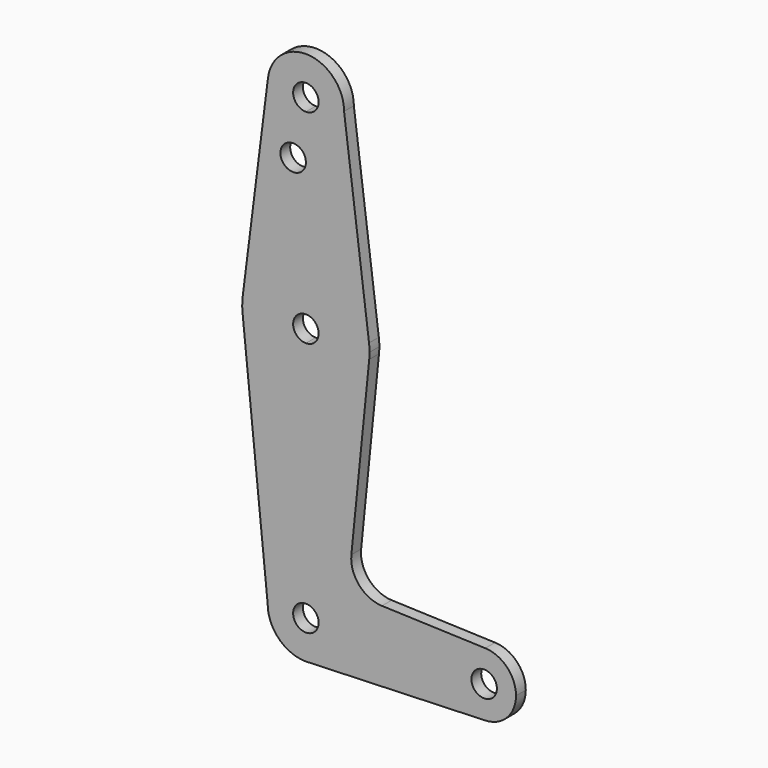
from build123d import *

# Parameters (mm, degrees)
F0_R     = 3.175
F1_DEPTH = 3.048


with BuildPart() as f1:
    # F0 (on Front) → F1 (new body)
    with BuildSketch(Plane.XZ):
        with BuildLine():
            ThreePointArc((-15.7942028036, 61.9003804205), (-10.644756084, 51.722700101), (0, 47.625))
            Line((0, 47.625), (0, 60.325))
            ThreePointArc((0, 60.325), (-3.175, 63.5), (0, 66.675))
            Line((0, 66.675), (0, 79.375))
            ThreePointArc((0, 79.375), (-10.5003255158, 75.40625), (-15.7504882737, 65.484375))
            ThreePointArc((-15.7504882737, 65.484375), (-15.8738192656, 63.6936154008), (-15.7942028036, 61.9003804205))
        make_face()
        with BuildLine():
            Line((-9.4502929642, 115.490625), (-15.7504882737, 65.484375))
            ThreePointArc((-15.7504882737, 65.484375), (-10.5003255158, 75.40625), (0, 79.375))
            Line((0, 79.375), (0, 100.0252))
            Line((0, 100.0252), (0, 104.775))
            ThreePointArc((0, 104.775), (-7.14375, 107.9998046905), (-9.4502929642, 115.490625))
        make_face()
        with Locations((-3.175, 100.0252)):
            Circle(F0_R, mode=Mode.SUBTRACT)
        with BuildLine():
            Line((36.5125, 0), (9.525, 0))
            ThreePointArc((9.525, 0), (6.9705567315, -6.4912990883), (0.6773435479, -9.500885786))
            Line((0.6773435479, -9.500885786), (44.7324052746, -7.9324746146))
            ThreePointArc((44.7324052746, -7.9324746146), (38.9380895153, -5.7116327839), (36.5125, 0))
        make_face()
        with BuildLine():
            ThreePointArc((44.7324052746, 7.9324746146), (38.9380895153, 5.7116327839), (36.5125, 0))
            ThreePointArc((36.5125, 0), (38.9380895153, -5.7116327839), (44.7324052746, -7.9324746146))
            ThreePointArc((44.7324052746, -7.9324746146), (50.1616327839, -5.5119104847), (52.3875, 0))
            ThreePointArc((52.3875, 0), (50.1616327839, 5.5119104847), (44.7324052746, 7.9324746146))
        make_face()
        with BuildLine():
            ThreePointArc((47.625, 0), (44.45, -3.175), (41.275, 0))
            ThreePointArc((41.275, 0), (44.45, 3.175), (47.625, 0))
        make_face(mode=Mode.SUBTRACT)
        with BuildLine():
            Line((0, 47.625), (0, 9.525))
            ThreePointArc((0, 9.525), (6.7351920908, 6.7351920908), (9.525, 0))
            Line((9.525, 0), (36.5125, 0))
            ThreePointArc((36.5125, 0), (38.9380895153, 5.7116327839), (44.7324052746, 7.9324746146))
            Line((44.7324052746, 7.9324746146), (18.9683264873, 8.8497056297))
            ThreePointArc((18.9683264873, 8.8497056297), (13.2612027952, 11.5674627234), (11.340834429, 17.5898916185))
            Line((11.340834429, 17.5898916185), (15.7942028036, 61.9003804205))
            ThreePointArc((15.7942028036, 61.9003804205), (10.644756084, 51.722700101), (0, 47.625))
        make_face()
        with BuildLine():
            Line((0, 100.0252), (0, 79.375))
            ThreePointArc((0, 79.375), (10.4912828548, 75.4142187767), (15.7474569047, 65.5082893304))
            Line((15.7474569047, 65.5082893304), (9.525, 114.3))
            ThreePointArc((9.525, 114.3), (6.7351920908, 107.5648079092), (0, 104.775))
            Line((0, 104.775), (0, 100.0252))
        make_face()
        with BuildLine():
            ThreePointArc((9.525, 114.3), (0.596483242, 123.8063048942), (-9.4502929642, 115.490625))
            ThreePointArc((-9.4502929642, 115.490625), (-7.14375, 107.9998046905), (0, 104.775))
            ThreePointArc((0, 104.775), (6.7351920908, 107.5648079092), (9.525, 114.3))
        make_face()
        with BuildLine():
            ThreePointArc((3.175, 114.3), (2.2450640303, 112.0549359697), (0, 111.125))
            ThreePointArc((0, 111.125), (-2.2450640303, 116.5450640303), (3.175, 114.3))
        make_face(mode=Mode.SUBTRACT)
        with BuildLine():
            ThreePointArc((-9.525, 0), (-6.7351920908, 6.7351920908), (0, 9.525))
            Line((0, 9.525), (0, 47.625))
            ThreePointArc((0, 47.625), (-10.644756084, 51.722700101), (-15.7942028036, 61.9003804205))
            Line((-15.7942028036, 61.9003804205), (-9.525, 0))
        make_face()
        with BuildLine():
            Line((0, 9.525), (0, 3.175))
            ThreePointArc((0, 3.175), (2.2450640303, 2.2450640303), (3.175, 0))
            Line((3.175, 0), (9.525, 0))
            ThreePointArc((9.525, 0), (6.7351920908, 6.7351920908), (0, 9.525))
        make_face()
        with BuildLine():
            Line((0, 60.325), (0, 47.625))
            ThreePointArc((0, 47.625), (10.644756084, 51.722700101), (15.7942028036, 61.9003804205))
            ThreePointArc((15.7942028036, 61.9003804205), (15.8547878338, 62.6991705884), (15.875, 63.5))
            ThreePointArc((15.875, 63.5), (15.8430821396, 64.5061676396), (15.7474569047, 65.5082893304))
            ThreePointArc((15.7474569047, 65.5082893304), (10.4912828548, 75.4142187767), (0, 79.375))
            Line((0, 79.375), (0, 66.675))
            ThreePointArc((0, 66.675), (2.2450640303, 65.7450640303), (3.175, 63.5))
            ThreePointArc((3.175, 63.5), (2.2450640303, 61.2549359697), (0, 60.325))
        make_face()
        with BuildLine():
            ThreePointArc((0, -9.525), (0.3388863295, -9.5189695375), (0.6773435479, -9.500885786))
            Line((0.6773435479, -9.500885786), (0, -9.525))
        make_face()
        with BuildLine():
            ThreePointArc((3.175, 0), (-2.2450640303, -2.2450640303), (0, 3.175))
            Line((0, 3.175), (0, 9.525))
            ThreePointArc((0, 9.525), (-6.7351920908, 6.7351920908), (-9.525, 0))
            ThreePointArc((-9.525, 0), (-6.7351920908, -6.7351920908), (0, -9.525))
            Line((0, -9.525), (0.6773435479, -9.500885786))
            ThreePointArc((0.6773435479, -9.500885786), (6.9705567315, -6.4912990883), (9.525, 0))
            Line((9.525, 0), (3.175, 0))
        make_face()
    extrude(amount=F1_DEPTH)


solid = f1.part
